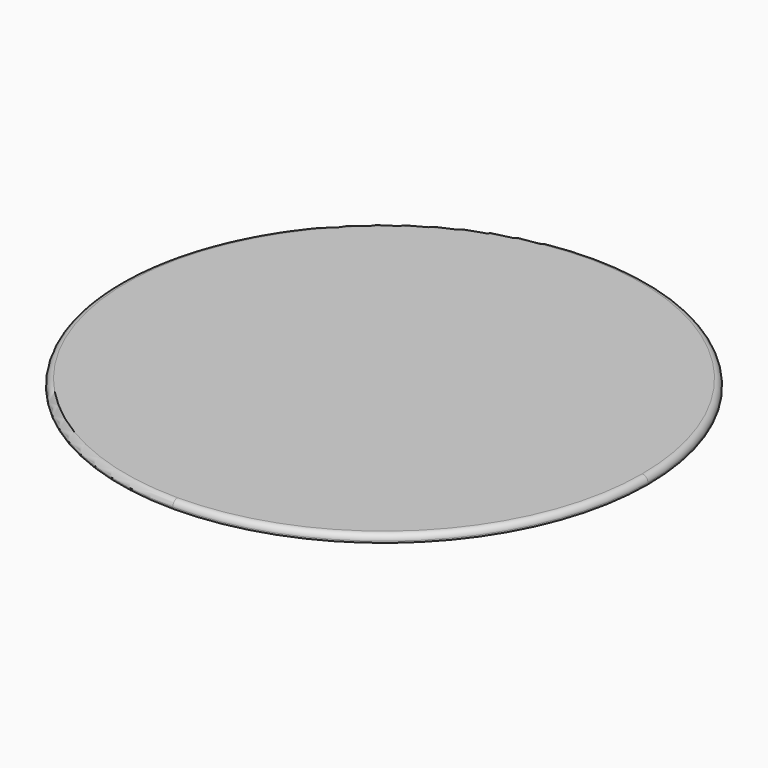
from build123d import *

# Parameters (mm, degrees)
F1_DEPTH = 2.54
F2_R     = 2


with BuildPart() as f1:
    # F0 (on Top) → F1 (new body)
    with BuildSketch(Plane.XY):
        with BuildLine():
            ThreePointArc((0, -90.6463929432), (64.0966791402, -64.0966791402), (90.6463929432, 0))
            ThreePointArc((90.6463929432, 0), (64.0966791402, 64.0966791402), (0, 90.6463929432))
            Line((0, 90.6463929432), (0, 0))
            Line((0, 0), (0, -90.6463929432))
        make_face()
        with BuildLine():
            Line((0, 0), (0, 90.6463929432))
            ThreePointArc((0, 90.6463929432), (-90.6463929432, 0), (0, -90.6463929432))
            Line((0, -90.6463929432), (0, 0))
        make_face()
    extrude(amount=F1_DEPTH)

    # F2
    f2_edges = [f1.edges().sort_by_distance(p)[0] for p in [
        (-90.646393, 0, 2.54),
    ]]
    fillet(f2_edges, radius=F2_R)


solid = f1.part
